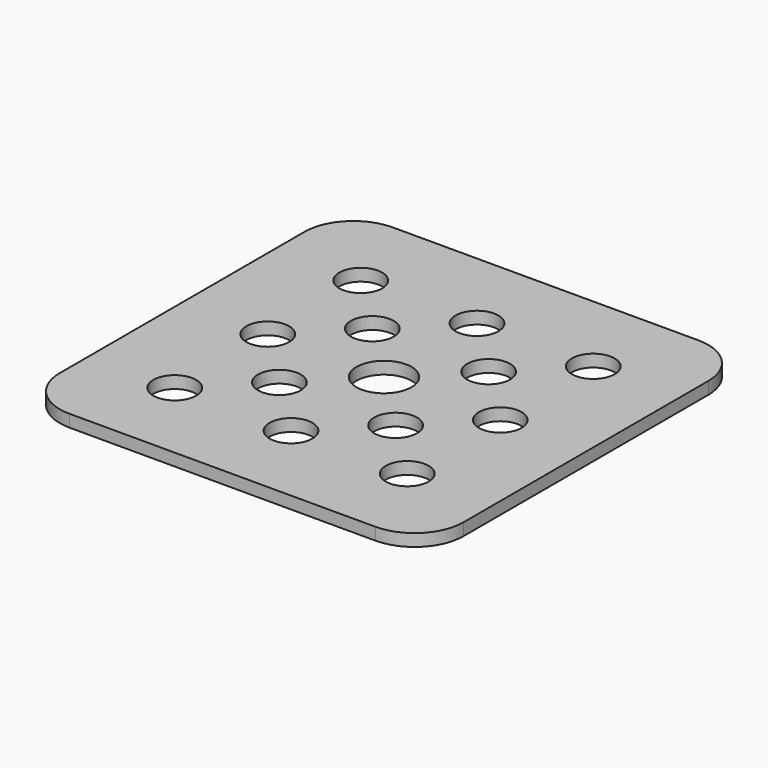
from build123d import *

# Parameters (mm, degrees)
F0_R     = 1.75
F0_R_2   = 2.25
F1_DEPTH = 1


with BuildPart() as f1:
    # F0 (on Top) → F1 (new body)
    with BuildSketch(Plane.XY):
        with BuildLine():
            ThreePointArc((16.5, 12.5), (15.328427, 15.328427), (12.5, 16.5))
            Line((12.5, 16.5), (-12.5, 16.5))
            ThreePointArc((-12.5, 16.5), (-15.328427, 15.328427), (-16.5, 12.5))
            Line((-16.5, 12.5), (-16.5, -12.5))
            ThreePointArc((-16.5, -12.5), (-15.328427, -15.328427), (-12.5, -16.5))
            Line((-12.5, -16.5), (12.5, -16.5))
            ThreePointArc((12.5, -16.5), (15.328427, -15.328427), (16.5, -12.5))
            Line((16.5, -12.5), (16.5, 12.5))
        make_face()
        with Locations((-9.5, -9.5)):
            Circle(F0_R, mode=Mode.SUBTRACT)
        with Locations((-4.75, -4.75)):
            Circle(F0_R, mode=Mode.SUBTRACT)
        with Locations((0, -9.5)):
            Circle(F0_R, mode=Mode.SUBTRACT)
        with Locations((9.5, -9.5)):
            Circle(F0_R, mode=Mode.SUBTRACT)
        with Locations((4.75, -4.75)):
            Circle(F0_R, mode=Mode.SUBTRACT)
        with Locations((-9.5, 0)):
            Circle(F0_R, mode=Mode.SUBTRACT)
        with Locations((-4.75, 4.75)):
            Circle(F0_R, mode=Mode.SUBTRACT)
        with Locations((-9.5, 9.5)):
            Circle(F0_R, mode=Mode.SUBTRACT)
        Circle(F0_R_2, mode=Mode.SUBTRACT)
        with Locations((4.75, 4.75)):
            Circle(F0_R, mode=Mode.SUBTRACT)
        with Locations((9.5, 0)):
            Circle(F0_R, mode=Mode.SUBTRACT)
        with Locations((0, 9.5)):
            Circle(F0_R, mode=Mode.SUBTRACT)
        with Locations((9.5, 9.5)):
            Circle(F0_R, mode=Mode.SUBTRACT)
    extrude(amount=F1_DEPTH)


solid = f1.part
